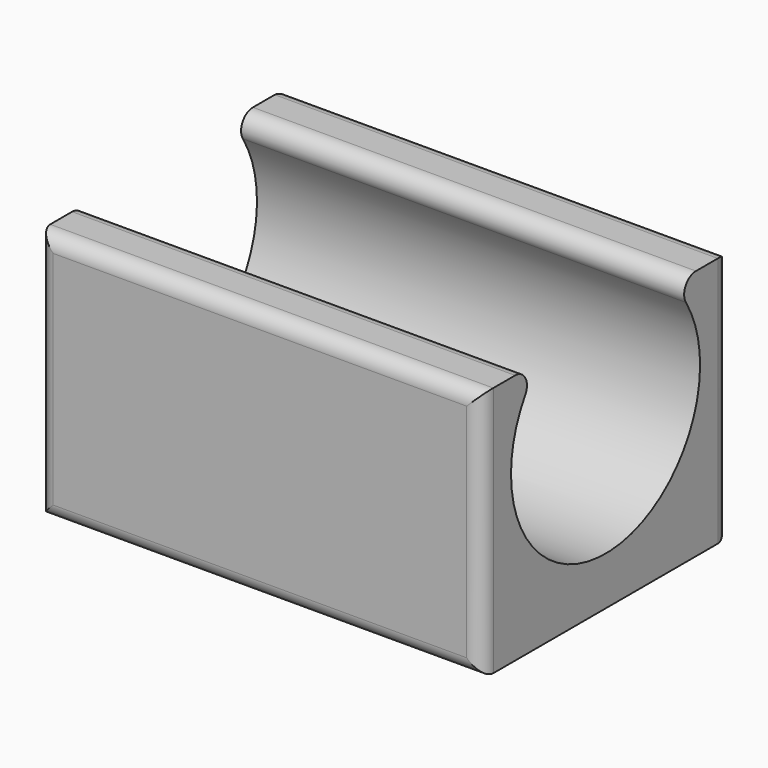
from build123d import *

# Parameters (mm, degrees)
F0_W     = 30
F0_H     = 21
F0_R     = 3
F1_DEPTH = 17
F3_DEPTH = 35
F4_DEPTH = 10
F5_R     = 1
F6_R     = 2


with BuildPart() as f1:
    # F0 (on Top) → F1 (new body)
    with BuildSketch(Plane.XY):
        Rectangle(F0_W, F0_H)
        Circle(F0_R, mode=Mode.SUBTRACT)
    extrude(amount=F1_DEPTH)

    # F2 (on face) → F3 (cut)
    with BuildSketch(Plane(origin=(-15, 0, 0), x_dir=(0, -1, 0), z_dir=(-1, 0, 0))):
        with BuildLine():
            ThreePointArc((-5.5756953559, 17), (-3.1140357378, 3.8940927926), (8, 11.2631348893))
            ThreePointArc((8, 11.2631348893), (7.3690420967, 14.3771706271), (5.5756953559, 17))
            Line((5.5756953559, 17), (-5.5756953559, 17))
        make_face()
    extrude(amount=-F3_DEPTH, mode=Mode.SUBTRACT)

    # F0 (on Top) → F4 (join)
    with BuildSketch(Plane.XY):
        Circle(F0_R)
    extrude(amount=F4_DEPTH)

    # F5
    f5_edges = [f1.edges().sort_by_distance(p)[0] for p in [
        (0, -10.5, 17),
        (0, 10.5, 17),
        (0, 5.575695, 17),
        (0, -5.575695, 17),
        (0, -10.5, 0),
        (0, 10.5, 0),
        (-15, 10.5, 8.5),
        (15, 10.5, 8.5),
        (15, -10.5, 8.5),
        (-15, -10.5, 8.5),
    ]]
    fillet(f5_edges, radius=F5_R)

    # F6
    f6_edges = [f1.edges().sort_by_distance(p)[0] for p in [
        (-3, 0, 10),
    ]]
    fillet(f6_edges, radius=F6_R)


solid = f1.part
